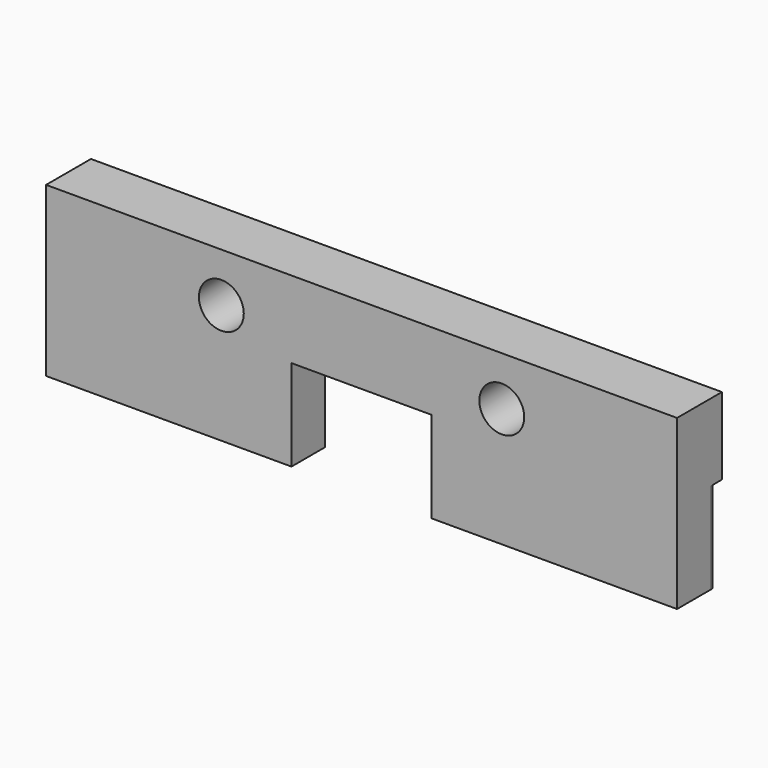
from build123d import *

# Parameters (mm, degrees)
F0_W     = 45
F0_H     = 4
F1_DEPTH = 12
F2_R     = 1.6
F3_DEPTH = 4.001
F4_W     = 45
F4_H     = 1
F5_DEPTH = 6.5
F6_R     = 0.5
F7_DEPTH = 7
F8_W     = 10
F8_H     = 9.745784
F9_DEPTH = 6.5


with BuildPart() as f1:
    # F0 (on Top) → F1 (new body)
    with BuildSketch(Plane.XY):
        Rectangle(F0_W, F0_H)
    extrude(amount=F1_DEPTH)

    # F2 (on face) → F3 (cut, through all)
    with BuildSketch(Plane.XZ.offset(2)):
        with Locations((-10, 8.5)):
            Circle(F2_R)
        with Locations((10, 8.5)):
            Circle(F2_R)
    extrude(amount=-F3_DEPTH, mode=Mode.SUBTRACT)

    # F4 (on face) → F5 (cut)
    with BuildSketch(Plane(origin=(0, 0, 0), x_dir=(1, 0, 0), z_dir=(0, 0, -1))):
        with Locations((0, -1.5)):
            Rectangle(F4_W, F4_H)
    extrude(amount=-F5_DEPTH, mode=Mode.SUBTRACT)

    # F6 (on face) → F7 (join)
    with BuildSketch(Plane(origin=(0, 0, 0), x_dir=(1, 0, 0), z_dir=(0, 0, -1))):
        with Locations((22, -1)):
            Circle(F6_R)
        with Locations((20, -1)):
            Circle(F6_R)
        with Locations((18, -1)):
            Circle(F6_R)
        with Locations((16, -1)):
            Circle(F6_R)
        with Locations((14, -1)):
            Circle(F6_R)
        with Locations((12, -1)):
            Circle(F6_R)
        with Locations((10, -1)):
            Circle(F6_R)
        with Locations((8, -1)):
            Circle(F6_R)
        with Locations((6, -1)):
            Circle(F6_R)
        with Locations((4, -1)):
            Circle(F6_R)
        with Locations((2, -1)):
            Circle(F6_R)
        with Locations((0, -1)):
            Circle(F6_R)
        with Locations((-2, -1)):
            Circle(F6_R)
        with Locations((-4, -1)):
            Circle(F6_R)
        with Locations((-6, -1)):
            Circle(F6_R)
        with Locations((-8, -1)):
            Circle(F6_R)
        with Locations((-10, -1)):
            Circle(F6_R)
        with Locations((-12, -1)):
            Circle(F6_R)
        with Locations((-14, -1)):
            Circle(F6_R)
        with Locations((-16, -1)):
            Circle(F6_R)
        with Locations((-18, -1)):
            Circle(F6_R)
        with Locations((-20, -1)):
            Circle(F6_R)
        with Locations((-22, -1)):
            Circle(F6_R)
    extrude(amount=-F7_DEPTH)

    # F8 (on face) → F9 (cut)
    with BuildSketch(Plane(origin=(0, 0, 0), x_dir=(1, 0, 0), z_dir=(0, 0, -1))):
        Rectangle(F8_W, F8_H)
    extrude(amount=-F9_DEPTH, mode=Mode.SUBTRACT)


solid = f1.part
